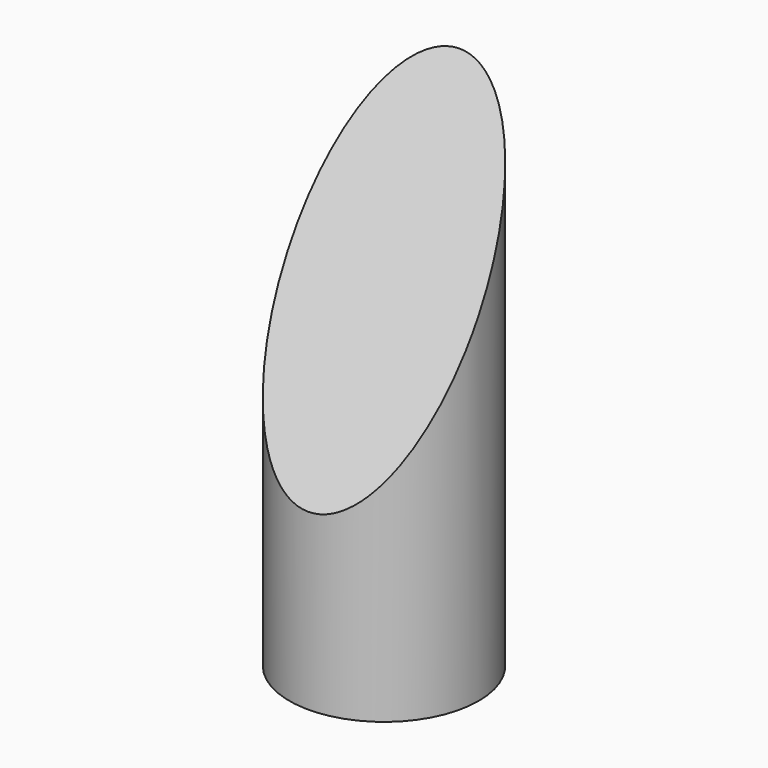
from build123d import *

# Parameters (mm, degrees)
F0_R          = 3.75
F1_DEPTH      = 20
F3_DEPTH      = 26
F3_DEPTH_BACK = 25


with BuildPart() as f1:
    # F0 (on Top) → F1 (new body)
    with BuildSketch(Plane.XY):
        Circle(F0_R)
    extrude(amount=F1_DEPTH)

    # F2 (on Right) → F3 (cut, two sides)
    with BuildSketch(Plane.YZ) as f3_sk:
        Polygon((-3.7501247134, 6.8998555653), (3.750013886, 20), (4.0639318512, 47.3200296898), (-16.8426203673, 38.7172108249), align=None)
    extrude(amount=-F3_DEPTH, mode=Mode.SUBTRACT)
    extrude(f3_sk.sketch, amount=F3_DEPTH_BACK, mode=Mode.SUBTRACT)


solid = f1.part
